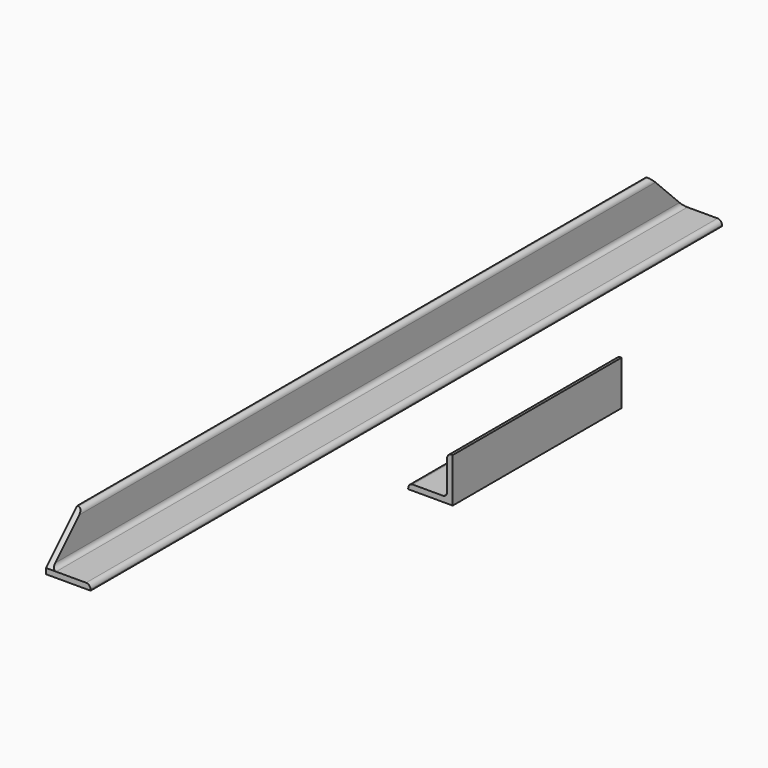
from build123d import *

# Parameters (mm, degrees)
F1_DEPTH = 450.85
F2_DEPTH = 120.65
F4_DEPTH = 25.4
F5_R     = 5.08
F5_2_R   = 5.08


with BuildPart() as f1:
    # F0 (on Front) → F1 (new body, symmetric)
    with BuildSketch(Plane.XZ):
        Polygon((-25.4, -25.4), (25.4, -25.4), (25.4, -19.05), (-19.05, -19.05), (-19.05, 25.4), (-25.4, 25.4), align=None)
    extrude(amount=F1_DEPTH, both=True)

    # F3 (on face) → F4 (cut)
    with BuildSketch(Plane.YZ.offset(-19.05)):
        Polygon((-450.85, 25.4), (-450.85, -19.05), (-406.4, 25.4), align=None)
        Polygon((450.85, 25.4), (406.4, 25.4), (450.85, -19.05), align=None)
    extrude(amount=-F4_DEPTH, mode=Mode.SUBTRACT)

    # F5
    f5_edges = [f1.edges().sort_by_distance(p)[0] for p in [
        (-19.05, 0, -19.05),
        (-19.05, 0, 25.4),
        (25.4, 0, -19.05),
    ]]
    fillet(f5_edges, radius=F5_R)


with BuildPart() as f2:
    # F0 (on Front) → F2 (new body, symmetric)
    with BuildSketch(Plane.XZ):
        Polygon((175.015824, 25.4), (168.665824, 25.4), (168.665824, -19.05), (124.215824, -19.05), (124.215824, -25.4), (175.015824, -25.4), align=None)
    extrude(amount=F2_DEPTH, both=True)

    # F5#2
    f5_2_edges = [f2.edges().sort_by_distance(p)[0] for p in [
        (168.665824, 0, -19.05),
        (124.215824, 0, -19.05),
        (168.665824, 0, 25.4),
    ]]
    fillet(f5_2_edges, radius=F5_2_R)


solid = Compound([f1.part, f2.part])
